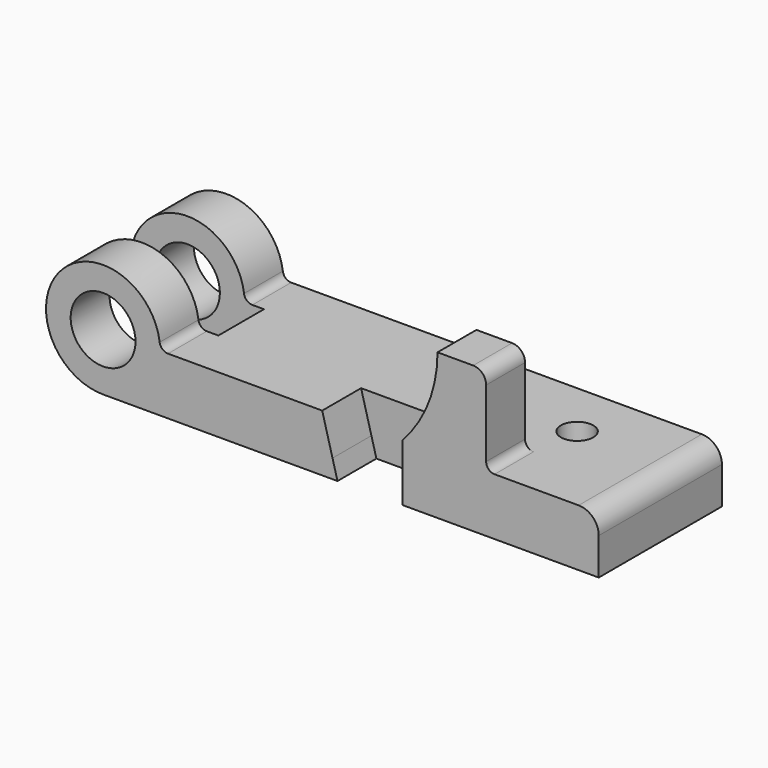
from build123d import *

# Parameters (mm, degrees)
F0_R     = 12.7
F1_DEPTH = 60.325
F3_DEPTH = 19.05
F4_DEPTH = 19.05
F5_R     = 6.35
F6_DEPTH = 22.352
F8_R     = 3.302
F7_W     = 69.4968977088
F7_H     = 22.3266
F9_DEPTH = 63.5


with BuildPart() as f1:
    # F0 (on Front) → F1 (new body)
    with BuildSketch(Plane.XZ):
        with BuildLine():
            Line((-194.2084, 0), (-102.362, 0))
            Line((-102.362, 0), (-104.313945544, 7.2784410115))
            ThreePointArc((-104.313945544, 7.2784410115), (-129.5850257878, 8.8118186082), (-150.9776, 22.352))
            Line((-150.9776, 22.352), (-171.8564, 22.352))
            ThreePointArc((-171.8564, 22.352), (-210.0136507731, 38.1572507731), (-194.2084, 0))
        make_face()
        with Locations((-194.2084, 22.352)):
            Circle(F0_R, mode=Mode.SUBTRACT)
        with BuildLine():
            ThreePointArc((-150.9776, 22.352), (-129.5850257878, 8.8118186082), (-104.313945544, 7.2784410115))
            Line((-104.313945544, 7.2784410115), (-108.3564, 22.352))
            Line((-108.3564, 22.352), (-150.9776, 22.352))
        make_face()
        with BuildLine():
            ThreePointArc((-104.313945544, 7.2784410115), (-89.4508847111, 12.6611726116), (-76.962, 22.352))
            Line((-76.962, 22.352), (-108.3564, 22.352))
            Line((-108.3564, 22.352), (-104.313945544, 7.2784410115))
        make_face()
        with BuildLine():
            Line((-102.362, 0), (-76.962, 0))
            Line((-76.962, 0), (-76.962, 22.352))
            ThreePointArc((-76.962, 22.352), (-89.4508847111, 12.6611726116), (-104.313945544, 7.2784410115))
            Line((-104.313945544, 7.2784410115), (-102.362, 0))
        make_face()
        with BuildLine():
            Line((-76.962, 0), (0, 0))
            Line((0, 0), (0, 14.478))
            ThreePointArc((0, 14.478), (-2.3062412049, 20.0457587951), (-7.874, 22.352))
            Line((-7.874, 22.352), (-44.1198, 22.352))
            Line((-44.1198, 22.352), (-76.962, 22.352))
            Line((-76.962, 22.352), (-76.962, 0))
        make_face()
    extrude(amount=F1_DEPTH)

    # F2 (on face) → F3 (join)
    with BuildSketch(Plane.XZ.offset(60.325)):
        with BuildLine():
            ThreePointArc((-63.1698000533, 57.15), (-66.743984667, 38.4343576399), (-76.962, 22.352))
            Line((-76.962, 22.352), (-44.1198, 22.352))
            Line((-44.1198, 22.352), (-44.1198, 52.07))
            ThreePointArc((-44.1198, 52.07), (-45.6076975516, 55.6621024484), (-49.1998, 57.15))
            Line((-49.1998, 57.15), (-63.1698000533, 57.15))
        make_face()
    extrude(amount=-F3_DEPTH)

    # F2 (on face) → F4 (cut)
    with BuildSketch(Plane.XZ.offset(60.325)):
        with BuildLine():
            ThreePointArc((-104.313945544, 7.2784410115), (-89.4508847111, 12.6611726116), (-76.962, 22.352))
            Line((-76.962, 22.352), (-108.3564, 22.352))
            Line((-108.3564, 22.352), (-104.313945544, 7.2784410115))
        make_face()
        with BuildLine():
            Line((-76.962, 0), (-76.962, 22.352))
            ThreePointArc((-76.962, 22.352), (-89.4508847111, 12.6611726116), (-104.313945544, 7.2784410115))
            Line((-104.313945544, 7.2784410115), (-102.362, 0))
            Line((-102.362, 0), (-76.962, 0))
        make_face()
    extrude(amount=-F4_DEPTH, mode=Mode.SUBTRACT)

    # F5 (on face) → F6 (cut, through all)
    with BuildSketch(Plane.XY.offset(22.352)):
        with Locations((-38.862, -22.352)):
            Circle(F5_R)
    extrude(amount=-F6_DEPTH, mode=Mode.SUBTRACT)

    # F8
    f8_edges = [f1.edges().sort_by_distance(p)[0] for p in [
        (-171.8564, -30.1625, 22.352),
        (-44.1198, -50.8, 22.352),
    ]]
    fillet(f8_edges, radius=F8_R)

    # F7 (on face) → F9 (cut, symmetric)
    with BuildSketch(Plane.XY.offset(22.352)):
        with Locations((-198.9848488544, -30.1625)):
            Rectangle(F7_W, F7_H)
    extrude(amount=F9_DEPTH, both=True, mode=Mode.SUBTRACT)


solid = f1.part
